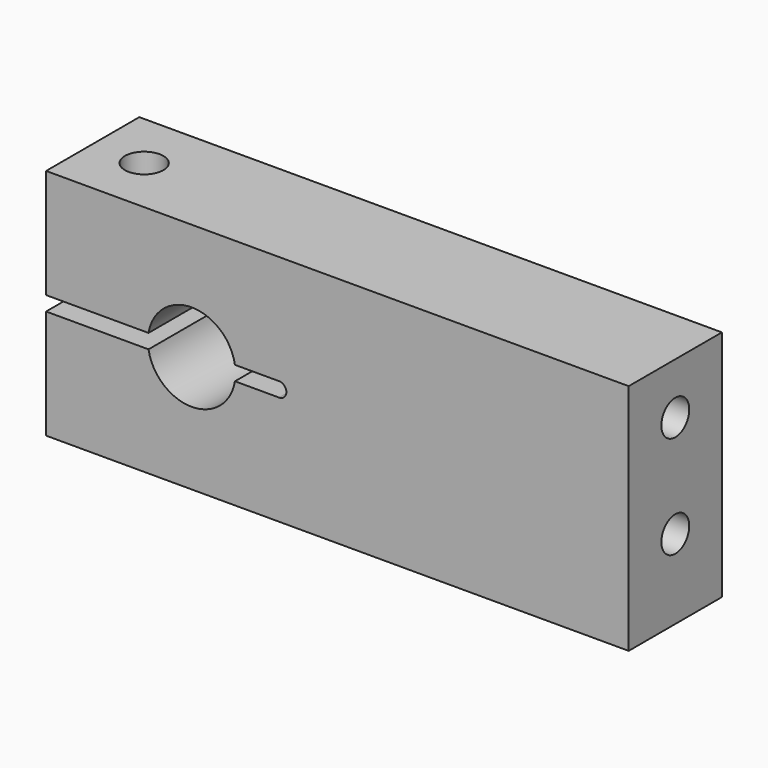
from build123d import *

# Parameters (mm, degrees)
F0_W      = 63.5
F0_H      = 12.7
F1_DEPTH  = 25.4
F3_D      = 3.7973
F3_DEPTH  = 12.7
F3_TIP    = 1.1408240143
F4_D      = 3.7973
F4_DEPTH  = 12.7
F4_TIP    = 1.1408240143
F6_D      = 9.5504
F7_DEPTH  = 12.701
F10_D     = 5.5
F10_DEPTH = 11.9136
F12_D     = 4.2


with BuildPart() as f1:
    # F0 (on Top) → F1 (new body)
    with BuildSketch(Plane.XY):
        with Locations((-31.75, -6.35)):
            Rectangle(F0_W, F0_H)
    extrude(amount=F1_DEPTH)

    # F3
    with Locations(Plane.YZ):
        with Locations((-6.35, 19.812)):
            Hole(F3_D / 2, depth=F3_DEPTH)
            with Locations((0, 0, -(F3_DEPTH + F3_TIP / 2))):  # 118° drill point
                Cone(0, F3_D / 2, F3_TIP, mode=Mode.SUBTRACT)

    # F4
    with Locations(Plane.YZ):
        with Locations((-6.35, 8.636)):
            Hole(F4_D / 2, depth=F4_DEPTH)
            with Locations((0, 0, -(F4_DEPTH + F4_TIP / 2))):  # 118° drill point
                Cone(0, F4_D / 2, F4_TIP, mode=Mode.SUBTRACT)

    # F6 (through all)
    with Locations(Plane(origin=(0, 0, 0), x_dir=(-1, 0, 0), z_dir=(0, 1, 0))):
        with Locations((47.625, 12.7)):
            Hole(F6_D / 2)

    # F5 (on face) → F7 (cut, through all)
    with BuildSketch(Plane(origin=(0, 0, 0), x_dir=(-1, 0, 0), z_dir=(0, 1, 0))):
        with BuildLine():
            ThreePointArc((38.1, 13.4874), (37.3126, 12.7), (38.1, 11.9126))
            Line((38.1, 11.9126), (63.5, 11.9126))
            Line((63.5, 11.9126), (63.5, 12.7))
            Line((63.5, 12.7), (63.5, 13.4874))
            Line((63.5, 13.4874), (38.1, 13.4874))
        make_face()
    extrude(amount=-F7_DEPTH, mode=Mode.SUBTRACT)

    # F10 (through all, one way)
    with BuildSketch(Plane.XY.offset(11.9126)):
        with Locations((-57.9174169985, -6.35)):
            Circle(F10_D / 2)
    extrude(amount=-F10_DEPTH, mode=Mode.SUBTRACT)

    # F12 (through all)
    with Locations(Plane(origin=(0, 0, 13.4874), x_dir=(1, 0, 0), z_dir=(0, 0, -1))):
        with Locations((-57.8892030611, 6.35)):
            Hole(F12_D / 2)


solid = f1.part
